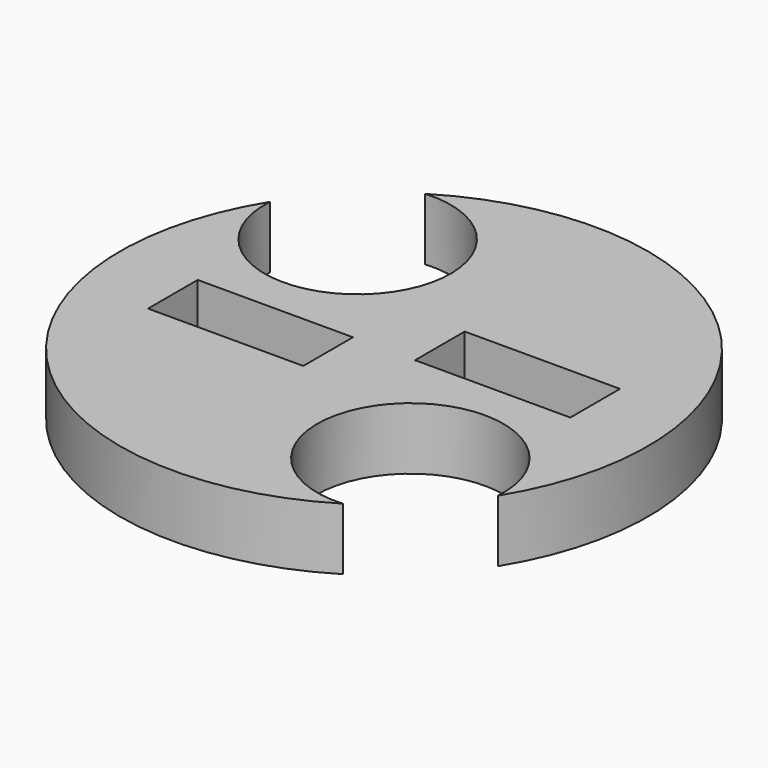
from build123d import *

# Parameters (mm, degrees)
F0_R     = 8.5
F1_DEPTH = 2
F3_D     = 6
F4_W     = 5
F4_H     = 2
F5_DEPTH = 2.001


with BuildPart() as f1:
    # F0 (on Top) → F1 (new body)
    with BuildSketch(Plane.XY):
        Circle(F0_R)
    extrude(amount=-F1_DEPTH)

    # F3 (through all)
    with Locations(Plane.XY):
        with Locations((4.242641, -4.242641), (-4.242641, 4.242641)):
            Hole(F3_D / 2)

    # F4 (on face) → F5 (cut, through all)
    with BuildSketch(Plane.XY):
        with Locations((-3.5, -1)):
            Rectangle(F4_W, F4_H)
        with Locations((3.5, 1)):
            Rectangle(F4_W, F4_H)
    extrude(amount=-F5_DEPTH, mode=Mode.SUBTRACT)


solid = f1.part
